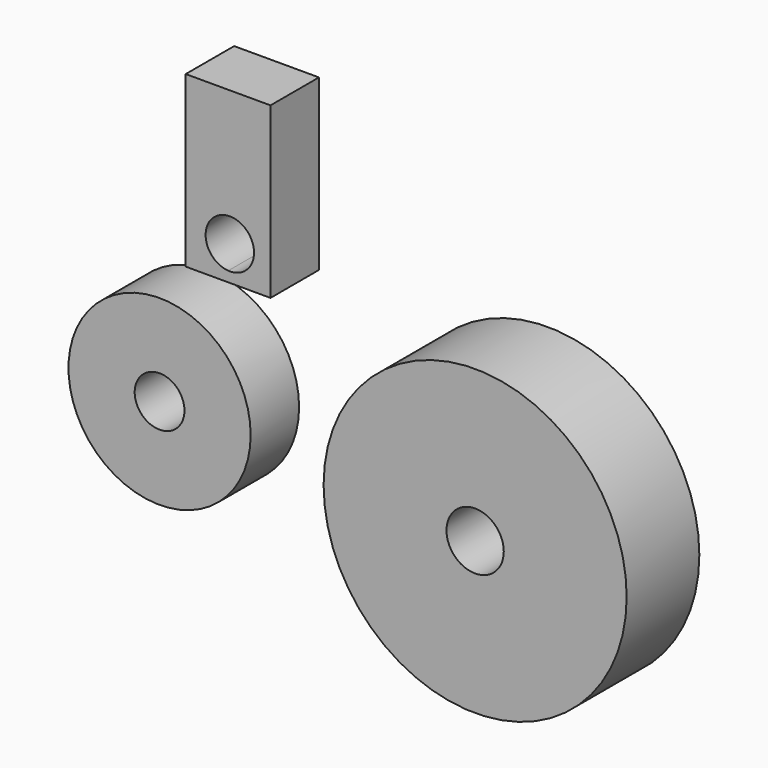
from build123d import *

# Parameters (mm, degrees)
F0_R     = 31.784326
F0_R_2   = 6.006463
F1_DEPTH = 19.05
F2_R     = 19.104648
F2_R_2   = 5.218593
F3_DEPTH = 12.7
F5_DEPTH = 12.7


with BuildPart() as f1:
    # F0 (on Front) → F1 (new body)
    with BuildSketch(Plane.XZ):
        Circle(F0_R)
        Circle(F0_R_2, mode=Mode.SUBTRACT)
    extrude(amount=F1_DEPTH)


with BuildPart() as f3:
    # F2 (on Front) → F3 (new body)
    with BuildSketch(Plane.XZ):
        with Locations((-71.267188, 0)):
            Circle(F2_R)
        with Locations((-71.267188, 0)):
            Circle(F2_R_2, mode=Mode.SUBTRACT)
    extrude(amount=F3_DEPTH)


with BuildPart() as f5:
    # F4 (on Front) → F5 (new body)
    with BuildSketch(Plane.XZ):
        with BuildLine():
            Line((-56.532775, 62.239115), (-65.783464, 62.239115))
            Line((-65.783464, 62.239115), (-65.783464, 26.679115))
            Line((-65.783464, 26.679115), (-56.893464, 26.679115))
            Line((-56.893464, 26.679115), (-56.871671, 28.827722))
            ThreePointArc((-56.871671, 28.827722), (-61.612514, 33.94793), (-56.768787, 38.97092))
            Line((-56.768787, 38.97092), (-56.532775, 62.239115))
        make_face()
        with BuildLine():
            Line((-48.003464, 62.239115), (-56.532775, 62.239115))
            Line((-56.532775, 62.239115), (-56.768787, 38.97092))
            ThreePointArc((-56.768787, 38.97092), (-53.025108, 37.571003), (-51.452775, 33.896405))
            ThreePointArc((-51.452775, 33.896405), (-53.062558, 30.186419), (-56.871671, 28.827722))
            Line((-56.871671, 28.827722), (-56.893464, 26.679115))
            Line((-56.893464, 26.679115), (-48.003464, 26.679115))
            Line((-48.003464, 26.679115), (-48.003464, 62.239115))
        make_face()
    extrude(amount=F5_DEPTH)


solid = Compound([f1.part, f3.part, f5.part])
